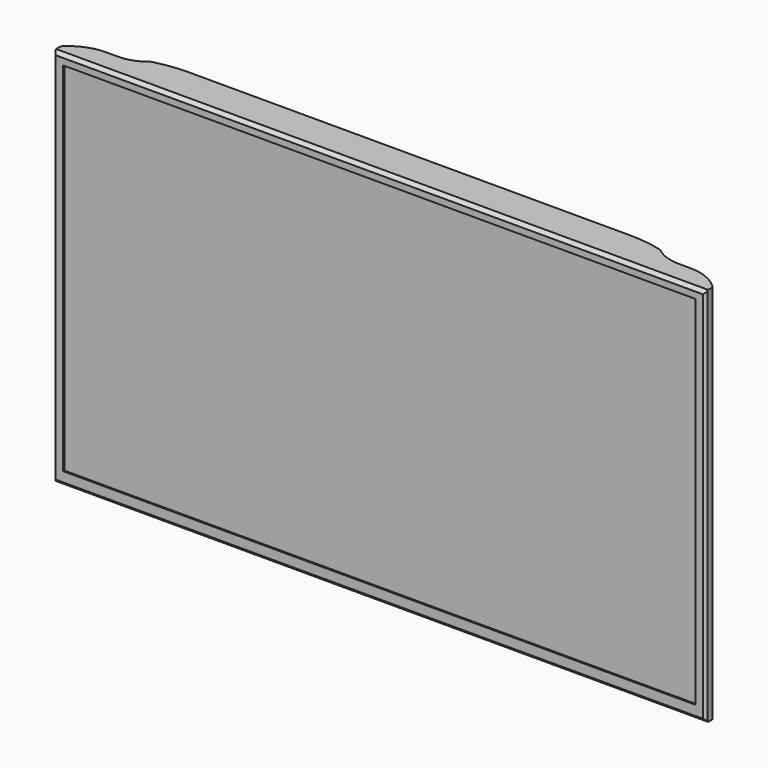
from build123d import *

# Parameters (mm, degrees)
F1_DEPTH  = 280
F2_SIZE   = 5
F3_W      = 931
F3_H      = 526
F4_DEPTH  = 2
F5_R      = 1.5
F6_DEPTH  = 10
F7_W      = 15
F7_H      = 250
F7_W_2    = 125
F8_DEPTH  = 20
F9_W      = 28
F9_H      = 28
F10_DEPTH = 5


with BuildPart() as f1:
    # F0 (on Top) → F1 (new body, symmetric)
    with BuildSketch(Plane.XY):
        with BuildLine():
            Line((-480, -23.964466), (-476.464466, -27.5))
            Line((-476.464466, -27.5), (0, -27.5))
            Line((0, -27.5), (0, 27.5))
            Line((0, 27.5), (-325, 27.5))
            ThreePointArc((-325, 27.5), (-350.22325, 25.818315), (-375, 20.803028))
            ThreePointArc((-375, 20.803028), (-392.520175, 10.560332), (-412.5, 7))
            Line((-412.5, 7), (-430, 7))
            ThreePointArc((-430, 7), (-457.11747, 1.534044), (-480, -14.010205))
            Line((-480, -14.010205), (-480, -23.964466))
        make_face()
        with BuildLine():
            Line((0, 27.5), (0, -27.5))
            Line((0, -27.5), (476.464466, -27.5))
            Line((476.464466, -27.5), (480, -23.964466))
            Line((480, -23.964466), (480, -14.010205))
            ThreePointArc((480, -14.010205), (457.11747, 1.534044), (430, 7))
            Line((430, 7), (412.5, 7))
            ThreePointArc((412.5, 7), (392.520175, 10.560332), (375, 20.803028))
            ThreePointArc((375, 20.803028), (350.22325, 25.818315), (325, 27.5))
            Line((325, 27.5), (0, 27.5))
        make_face()
    extrude(amount=F1_DEPTH, both=True)

    # F2
    f2_edges = [f1.edges().sort_by_distance(p)[0] for p in [
        (0, -27.5, 280),
        (0, -27.5, -280),
    ]]
    chamfer(f2_edges, length=F2_SIZE)

    # F3 (on face) → F4 (cut)
    with BuildSketch(Plane.XZ.offset(27.5)):
        with Locations((0, 2.5)):
            Rectangle(F3_W, F3_H)
    extrude(amount=-F4_DEPTH, mode=Mode.SUBTRACT)

    # F5 (on face) → F6 (cut)
    with BuildSketch(Plane(origin=(0, 27.5, 0), x_dir=(-1, 0, 0), z_dir=(0, 1, 0))):
        with Locations((-200, 228)):
            Circle(F5_R)
        with Locations((200, 228)):
            Circle(F5_R)
        with Locations((200, -172)):
            Circle(F5_R)
        with Locations((-200, -172)):
            Circle(F5_R)
    extrude(amount=-F6_DEPTH, mode=Mode.SUBTRACT)

    # F7 (on face) → F8 (cut)
    with BuildSketch(Plane(origin=(0, 27.5, 0), x_dir=(-1, 0, 0), z_dir=(0, 1, 0))):
        with Locations((332.5, 20)):
            Rectangle(F7_W, F7_H)
        with Locations((262.5, 20)):
            Rectangle(F7_W_2, F7_H)
    extrude(amount=-F8_DEPTH, mode=Mode.SUBTRACT)

    # F9 (on face) → F10 (cut)
    with BuildSketch(Plane(origin=(0, 27.5, 0), x_dir=(-1, 0, 0), z_dir=(0, 1, 0))):
        with Locations((-146, -56)):
            Rectangle(F9_W, F9_H)
    extrude(amount=-F10_DEPTH, mode=Mode.SUBTRACT)


solid = f1.part
